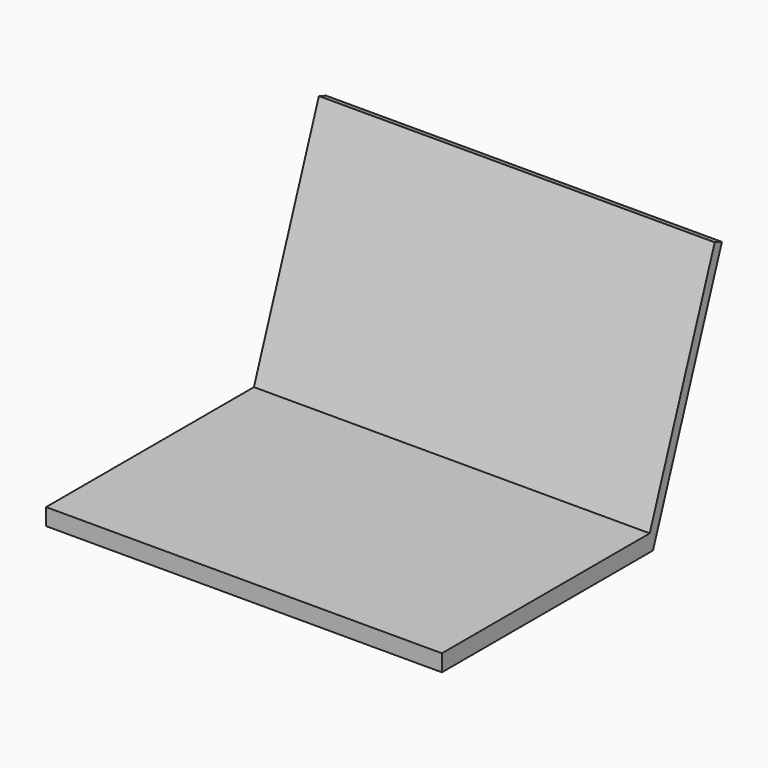
from build123d import *

# Parameters (mm, degrees)
SKETCH_W     = 330
SKETCH_H     = 220
PAD_DEPTH    = 14
PAD001_DEPTH = 165


with BuildPart() as part:
    # Sketch → Pad (new body)
    with BuildSketch(Plane.XY):
        Rectangle(SKETCH_W, SKETCH_H)
    extrude(amount=PAD_DEPTH)

    # Sketch001 → Pad001 (join, symmetric)
    with BuildSketch(Plane.YZ):
        Polygon((110, 0), (181.824324, 197.335416), (174.306784, 200.071581), (102.48246, 2.736165), align=None)
    extrude(amount=PAD001_DEPTH, both=True)


solid = part.part
